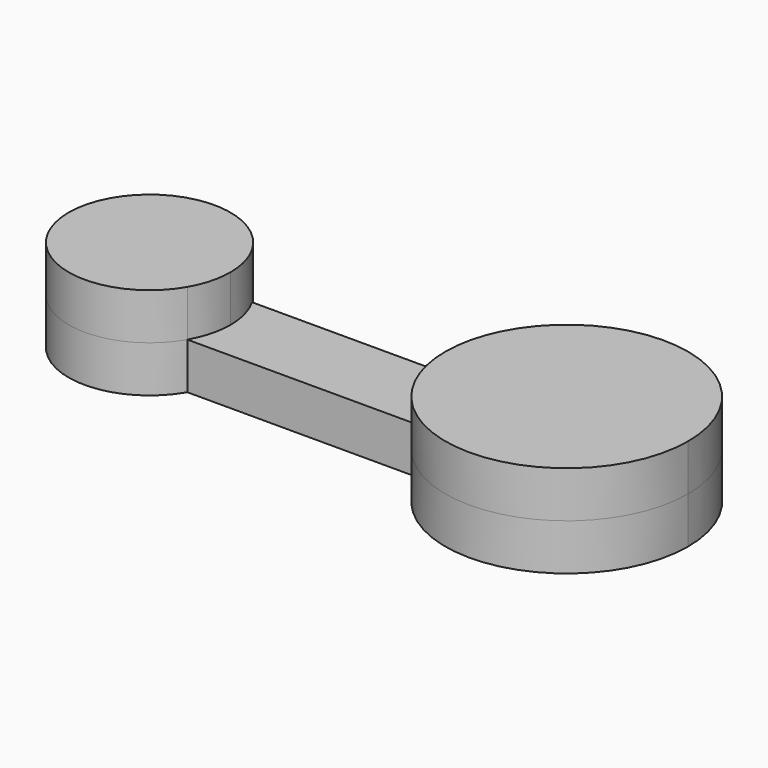
from build123d import *

# Parameters (mm, degrees)
F2_DEPTH = 5
F3_DEPTH = 5


with BuildPart() as f2:
    # F1 (on Top) → F2 (new body)
    with BuildSketch(Plane.XY):
        with BuildLine():
            ThreePointArc((7.560401775, -4.365), (8.4325324635, -2.2594902637), (8.73, 0))
            ThreePointArc((8.73, 0), (8.4325324635, 2.2594902637), (7.560401775, 4.365))
            ThreePointArc((7.560401775, 4.365), (-8.73, 0), (7.560401775, -4.365))
        make_face()
        with BuildLine():
            ThreePointArc((58.095, 0), (47.2143904114, 12.9064131387), (32.6539156005, 4.365))
            ThreePointArc((32.6539156005, 4.365), (31.905, 0), (32.6539156005, -4.365))
            ThreePointArc((32.6539156005, -4.365), (47.2143904114, -12.9064131387), (58.095, 0))
        make_face()
    extrude(amount=F2_DEPTH)

    # F1 (on Top) → F3 (join)
    with BuildSketch(Plane.XY):
        with BuildLine():
            ThreePointArc((58.095, 0), (47.2143904114, 12.9064131387), (32.6539156005, 4.365))
            ThreePointArc((32.6539156005, 4.365), (31.905, 0), (32.6539156005, -4.365))
            ThreePointArc((32.6539156005, -4.365), (47.2143904114, -12.9064131387), (58.095, 0))
        make_face()
        with BuildLine():
            ThreePointArc((7.560401775, 4.365), (8.4325324635, 2.2594902637), (8.73, 0))
            ThreePointArc((8.73, 0), (8.4325324635, -2.2594902637), (7.560401775, -4.365))
            Line((7.560401775, -4.365), (32.6539156005, -4.365))
            ThreePointArc((32.6539156005, -4.365), (31.905, 0), (32.6539156005, 4.365))
            Line((32.6539156005, 4.365), (7.560401775, 4.365))
        make_face()
        with BuildLine():
            ThreePointArc((7.560401775, -4.365), (8.4325324635, -2.2594902637), (8.73, 0))
            ThreePointArc((8.73, 0), (8.4325324635, 2.2594902637), (7.560401775, 4.365))
            ThreePointArc((7.560401775, 4.365), (-8.73, 0), (7.560401775, -4.365))
        make_face()
    extrude(amount=-F3_DEPTH)


with BuildPart() as f2_1:
    # F4: moved
    add(f2.part.moved(Location((0, 0, -5))))


solid = f2_1.part
